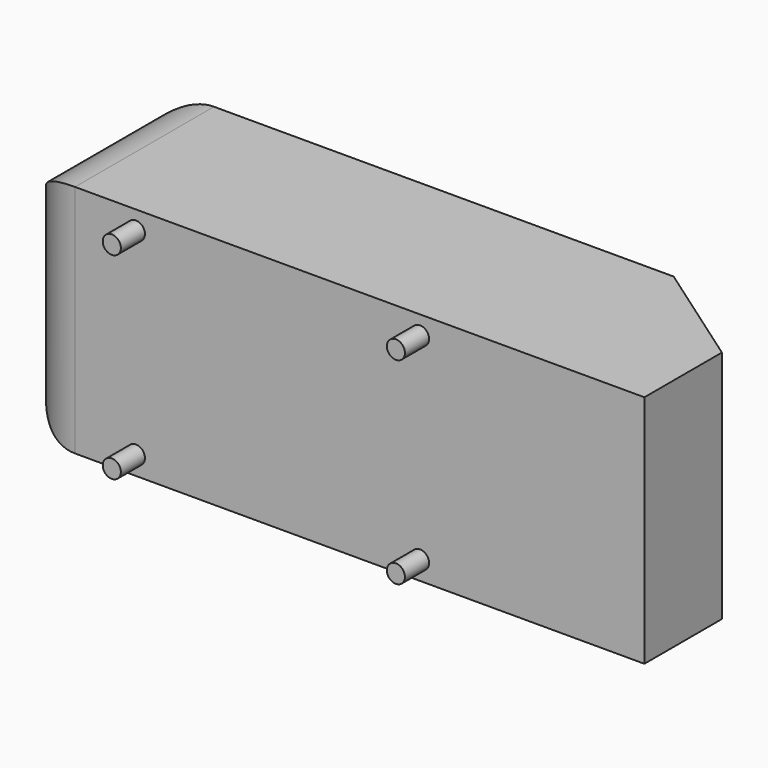
from build123d import *

# Parameters (mm, degrees)
F1_DEPTH = 194.5
F2_DEPTH = 194.5
F3_R     = 15
F4_DEPTH = 50
F5_R     = 100


with BuildPart() as f1:
    # F0 (on Top) → F1 (new body)
    with BuildSketch(Plane.XY):
        Polygon((-1044, 50), (0, 50), (0, 210.666031), (-181.851754, 338), (-1044, 338), align=None)
    extrude(amount=F1_DEPTH)

    # F0 (on Top) → F2 (join)
    with BuildSketch(Plane.XY):
        Polygon((-1044, 50), (0, 50), (0, 210.666031), (-181.851754, 338), (-1044, 338), align=None)
    extrude(amount=-F2_DEPTH)

    # F3 (on Front) → F4 (join, through all)
    with BuildSketch(Plane.XZ):
        with Locations((-843, 163.5)):
            Circle(F3_R)
        with Locations((-843, -163.5)):
            Circle(F3_R)
        with Locations((-372, -163.5)):
            Circle(F3_R)
        with Locations((-372, 163.5)):
            Circle(F3_R)
    extrude(amount=-F4_DEPTH)

    # F5
    f5_edges = [f1.edges().sort_by_distance(p)[0] for p in [
        (-1044, 338, 0),
        (-1044, 194, 194.5),
        (-1044, 50, 0),
        (-1044, 194, -194.5),
    ]]
    fillet(f5_edges, radius=F5_R)


solid = f1.part
